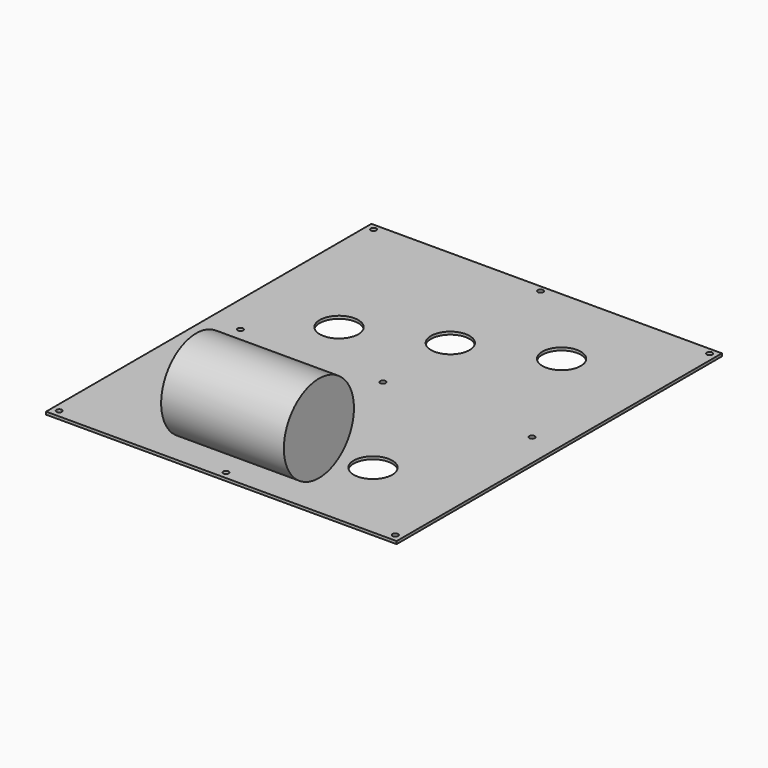
from build123d import *

# Parameters (mm, degrees)
F0_W     = 200
F0_H     = 232
F0_R     = 11
F1_DEPTH = 1.56
F2_D     = 3.15
F3_D     = 3.15
F4_R     = 25
F5_DEPTH = 35


with BuildPart() as f1:
    # F0 (on Top) → F1 (new body)
    with BuildSketch(Plane.XY):
        Rectangle(F0_W, F0_H)
        with Locations((-49, -29.16)):
            Circle(F0_R, mode=Mode.SUBTRACT)
        with Locations((-0.74, -48.21)):
            Circle(F0_R, mode=Mode.SUBTRACT)
        with Locations((47.52, -67.26)):
            Circle(F0_R, mode=Mode.SUBTRACT)
        with Locations((-49, 29.16)):
            Circle(F0_R, mode=Mode.SUBTRACT)
        with Locations((-0.74, 48.21)):
            Circle(F0_R, mode=Mode.SUBTRACT)
        with Locations((47.52, 67.26)):
            Circle(F0_R, mode=Mode.SUBTRACT)
    extrude(amount=-F1_DEPTH)

    # F2 (through all)
    with Locations(Plane.XY):
        with Locations((-95.89, 112.4)):
            Hole(F2_D / 2)

    # F3 (through all)
    with Locations(Plane.XY):
        with Locations((-0.6, 112.4), (95.89, 112.4), (84.45, 0), (-81.95, 0), (-0.6, 0), (-0.74, -111.77), (-95.89, -111.77), (95.89, -111.77)):
            Hole(F3_D / 2)


with BuildPart() as f5:
    # F4 (on Right) → F5 (new body, symmetric)
    with BuildSketch(Plane.YZ):
        with Locations((-90.178728, 25)):
            Circle(F4_R)
    extrude(amount=F5_DEPTH, both=True)


solid = Compound([f1.part, f5.part])
